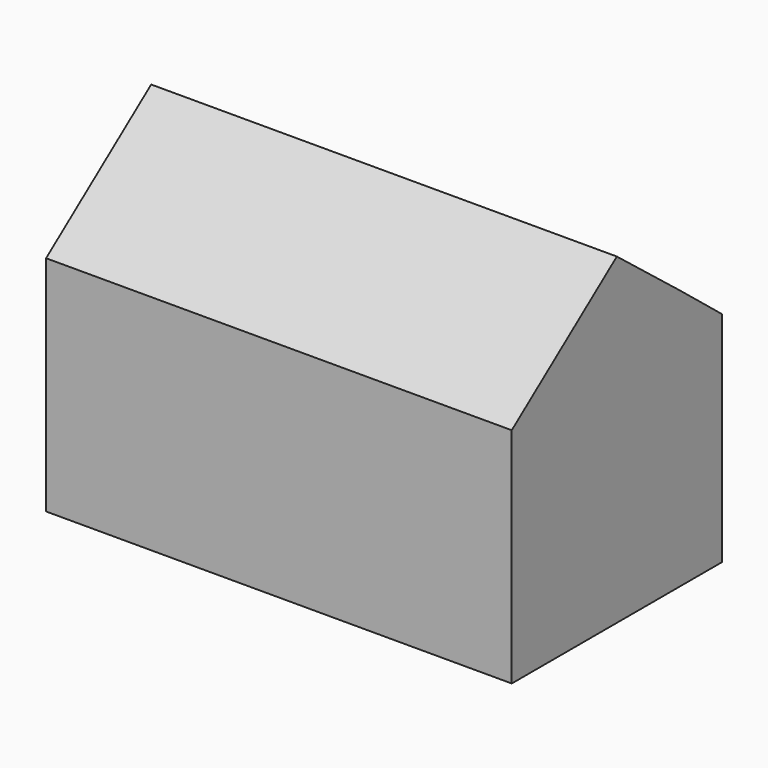
from build123d import *

# Parameters (mm, degrees)
F0_W     = 177.2500127554
F0_H     = 122.755214572
F1_DEPTH = 50
F3_DEPTH = 281.4


with BuildPart() as f1:
    # F0 (on Front) → F1 (new body, symmetric)
    with BuildSketch(Plane.XZ):
        Rectangle(F0_W, F0_H)
    extrude(amount=F1_DEPTH, both=True)

    # F2 (on face) → F3 (cut)
    with BuildSketch(Plane.YZ.offset(88.6250063777)):
        with BuildLine():
            Line((-50, 61.377607286), (-50, 23.49149121))
            add(Edge.make_bspline(
                [(-50, 23.49149121), (-33.3333333333, 36.1201965687), (-16.6666666667, 48.7489019273), (0, 61.377607286)],
                knots=[14.2716320074, 14.2716320074, 14.2716320074, 14.2716320074, 77.0040621478, 77.0040621478, 77.0040621478, 77.0040621478], degree=3))
            Line((0, 61.377607286), (-50, 61.377607286))
        make_face()
        with BuildLine():
            Line((50, 61.377607286), (0, 61.377607286))
            add(Edge.make_bspline(
                [(0, 61.377607286), (17.6472838318, 47.5731034788), (35.2945676635, 33.7685996716), (50, 21.7761076418)],
                knots=[0, 0, 0, 0, 0.483085928, 0.483085928, 0.483085928, 0.483085928], degree=3))
            Line((50, 21.7761076418), (50, 61.377607286))
        make_face()
    extrude(amount=-F3_DEPTH, mode=Mode.SUBTRACT)


solid = f1.part
